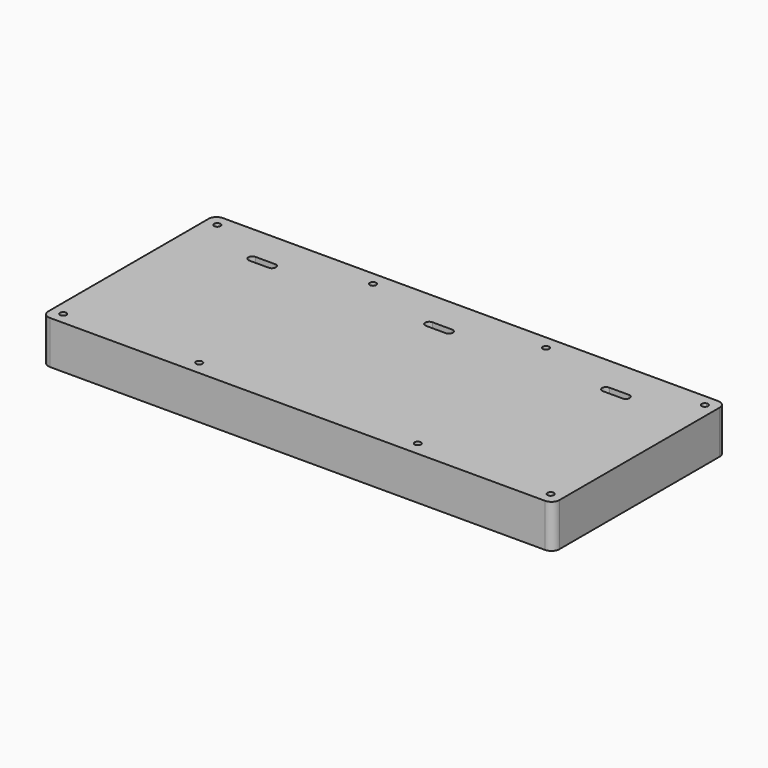
from build123d import *

# Parameters (mm, degrees)
SKETCH022_R     = 1.6
PAD008_DEPTH    = 4
PAD009_DEPTH    = 18
SKETCH024_R     = 2.5
POCKET014_DEPTH = 6.5
SKETCH025_R     = 1.6
POCKET015_DEPTH = 5
POCKET020_DEPTH = 5
SKETCH038_W     = 11
SKETCH038_H     = 4.9
POCKET024_DEPTH = 3.5


with BuildPart() as part:
    # Sketch022 (on ShapeBinder) → Pad008 (new body)
    with BuildSketch(Plane(origin=(0, 0, -95), x_dir=(1, 0, 0), z_dir=(0, 0, -1))):
        with BuildLine():
            Line((-126, 55), (126, 55))
            ThreePointArc((130, 51), (128.828427, 53.828427), (126, 55))
            Line((130, -51), (130, 51))
            ThreePointArc((126, -55), (128.828427, -53.828427), (130, -51))
            Line((-126, -55), (126, -55))
            ThreePointArc((-130, -51), (-128.828427, -53.828427), (-126, -55))
            Line((-130, 51), (-130, -51))
            ThreePointArc((-126, 55), (-128.828427, 53.828427), (-130, 51))
        make_face()
        with Locations((124, 49)):
            Circle(SKETCH022_R, mode=Mode.SUBTRACT)
        with Locations((124, -49)):
            Circle(SKETCH022_R, mode=Mode.SUBTRACT)
        with Locations((44, -48.010154)):
            Circle(SKETCH022_R, mode=Mode.SUBTRACT)
        with Locations((-44, -48.010154)):
            Circle(SKETCH022_R, mode=Mode.SUBTRACT)
        with Locations((-124, -49)):
            Circle(SKETCH022_R, mode=Mode.SUBTRACT)
        with Locations((-124, 49)):
            Circle(SKETCH022_R, mode=Mode.SUBTRACT)
        with Locations((-55.592233, 48.010154)):
            Circle(SKETCH022_R, mode=Mode.SUBTRACT)
        with Locations((55.592233, 48.010154)):
            Circle(SKETCH022_R, mode=Mode.SUBTRACT)
        with BuildLine():
            ThreePointArc((-95, -33), (-97, -35), (-95, -37))
            Line((-95, -37), (-85, -37))
            ThreePointArc((-85, -37), (-83, -35), (-85, -33))
            Line((-95, -33), (-85, -33))
        make_face(mode=Mode.SUBTRACT)
        with BuildLine():
            ThreePointArc((-5, -33), (-7, -35), (-5, -37))
            Line((-5, -37), (5, -37))
            ThreePointArc((5, -37), (7, -35), (5, -33))
            Line((-5, -33), (5, -33))
        make_face(mode=Mode.SUBTRACT)
        with BuildLine():
            ThreePointArc((85, -33), (83, -35), (85, -37))
            Line((85, -37), (95, -37))
            ThreePointArc((95, -37), (97, -35), (95, -33))
            Line((85, -33), (95, -33))
        make_face(mode=Mode.SUBTRACT)
    extrude(amount=PAD008_DEPTH)

    # Sketch023 (on Face30 of Pad008) → Pad009 (join)
    with BuildSketch(Plane(origin=(0, 0, -99), x_dir=(1, 0, 0), z_dir=(0, 0, -1))):
        with BuildLine():
            Line((-126, 55), (126, 55))
            ThreePointArc((130, 51), (128.828427, 53.828427), (126, 55))
            Line((130, 51), (130, -51))
            ThreePointArc((126, -55), (128.828427, -53.828427), (130, -51))
            Line((126, -55), (-126, -55))
            ThreePointArc((-130, -51), (-128.828427, -53.828427), (-126, -55))
            Line((-130, -51), (-130, 51))
            ThreePointArc((-126, 55), (-128.828427, 53.828427), (-130, 51))
        make_face()
        with BuildLine():
            ThreePointArc((-46.245109, -50), (-44, -51.010154), (-41.754891, -50))
            Line((-41.754891, -50), (-5, -50))
            ThreePointArc((5, -50), (0, -45), (-5, -50))
            Line((41.754891, -50), (5, -50))
            ThreePointArc((41.754891, -50), (44, -51.010154), (46.245109, -50))
            Line((46.245109, -50), (106.171573, -50))
            ThreePointArc((116.171573, -50), (111.171573, -45), (106.171573, -50))
            Line((121.171573, -50), (116.171573, -50))
            ThreePointArc((121.171573, -50), (126.12132, -51.12132), (125, -46.171573))
            Line((125, -46.171573), (125, -5))
            ThreePointArc((125, 5), (120, 0), (125, -5))
            Line((125, 46.171573), (125, 5))
            ThreePointArc((125, 46.171573), (126.12132, 51.12132), (121.171573, 50))
            Line((121.171573, 50), (116.171573, 50))
            ThreePointArc((106.171573, 50), (111.171573, 45), (116.171573, 50))
            Line((57.837342, 50), (106.171573, 50))
            ThreePointArc((57.837342, 50), (55.592233, 51.010154), (53.347124, 50))
            Line((53.347124, 50), (5, 50))
            ThreePointArc((-5, 50), (0, 45), (5, 50))
            Line((-53.347124, 50), (-5, 50))
            ThreePointArc((-53.347124, 50), (-55.592233, 51.010154), (-57.837342, 50))
            Line((-57.837342, 50), (-106.171573, 50))
            ThreePointArc((-116.171573, 50), (-111.171573, 45), (-106.171573, 50))
            Line((-121.171573, 50), (-116.171573, 50))
            ThreePointArc((-121.171573, 50), (-126.12132, 51.12132), (-125, 46.171573))
            Line((-125, 46.171573), (-125, 5))
            ThreePointArc((-125, -5), (-120, 0), (-125, 5))
            Line((-125, -46.171573), (-125, -5))
            ThreePointArc((-125, -46.171573), (-126.12132, -51.12132), (-121.171573, -50))
            Line((-121.171573, -50), (-116.171573, -50))
            ThreePointArc((-106.171573, -50), (-111.171573, -45), (-116.171573, -50))
            Line((-46.245109, -50), (-106.171573, -50))
        make_face(mode=Mode.SUBTRACT)
    extrude(amount=PAD009_DEPTH)

    # Sketch024 (on Face33 of Pad009) → Pocket014 (cut)
    with BuildSketch(Plane(origin=(0, 0, -117), x_dir=(1, 0, 0), z_dir=(0, 0, -1))):
        with Locations((-111.171573, 50)):
            Circle(SKETCH024_R)
        with Locations((0, 50)):
            Circle(SKETCH024_R)
        with Locations((111.171573, 50)):
            Circle(SKETCH024_R)
        with Locations((-125, 0)):
            Circle(SKETCH024_R)
        with Locations((-111.171573, -50)):
            Circle(SKETCH024_R)
        with Locations((0, -50)):
            Circle(SKETCH024_R)
        with Locations((111.171573, -50)):
            Circle(SKETCH024_R)
        with Locations((125, 0)):
            Circle(SKETCH024_R)
    extrude(amount=-POCKET014_DEPTH, mode=Mode.SUBTRACT)

    # Sketch025 (on Face83 of Pocket014) → Pocket015 (cut)
    with BuildSketch(Plane(origin=(0, 0, -110.5), x_dir=(1, 0, 0), z_dir=(0, 0, -1))):
        with Locations((0, -50)):
            Circle(SKETCH025_R)
        with Locations((-125, 0)):
            Circle(SKETCH025_R)
        with Locations((111.171573, -50)):
            Circle(SKETCH025_R)
        with Locations((-111.171573, -50)):
            Circle(SKETCH025_R)
        with Locations((57.837342, 50)):
            Circle(SKETCH025_R)
        with Locations((125, 0)):
            Circle(SKETCH025_R)
        with Locations((0, 50)):
            Circle(SKETCH025_R)
        with Locations((111.171573, 50)):
            Circle(SKETCH025_R)
    extrude(amount=-POCKET015_DEPTH, mode=Mode.SUBTRACT)

    # Sketch032 (on Face9 of Pocket015) → Pocket020 (cut)
    with BuildSketch(Plane(origin=(-130, 0, 0), x_dir=(0, -1, 0), z_dir=(-1, 0, 0))):
        with BuildLine():
            ThreePointArc((34.3, -103.9), (36, -102.2), (34.3, -100.5))
            Line((34.3, -100.5), (28.6, -100.5))
            ThreePointArc((28.6, -100.5), (26.9, -102.2), (28.6, -103.9))
            Line((34.3, -103.9), (28.6, -103.9))
        make_face()
    extrude(amount=-POCKET020_DEPTH, mode=Mode.SUBTRACT)

    # Sketch038 (on Face62 of Pocket020) → Pocket024 (cut)
    with BuildSketch(Plane.YZ.offset(-125)):
        with Locations((-31.45, -101.45)):
            Rectangle(SKETCH038_W, SKETCH038_H)
    extrude(amount=-POCKET024_DEPTH, mode=Mode.SUBTRACT)


solid = part.part
